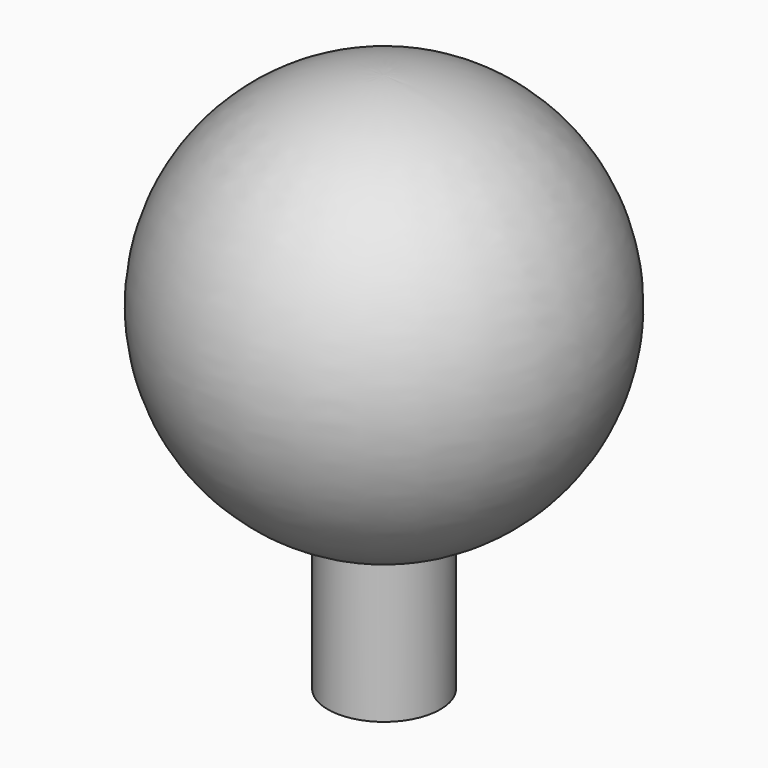
from build123d import *


with BuildPart() as f1:
    # F0 (on Front) → F1 (revolve)
    with BuildSketch(Plane.XZ):
        with BuildLine():
            ThreePointArc((4.166667, -29.40968), (14.851687, -12.895862), (0, 0))
            Line((0, 0), (0, -30))
            ThreePointArc((0, -30), (2.104138, -29.851687), (4.166667, -29.40968))
        make_face()
        with BuildLine():
            ThreePointArc((4.166667, -29.40968), (2.104138, -29.851687), (0, -30))
            Line((0, -30), (0, -40))
            Line((0, -40), (4.166667, -40))
            Line((4.166667, -40), (4.166667, -29.40968))
        make_face()
    revolve(axis=Axis((0, 0, -35), (0, 0, 1)))


solid = f1.part
